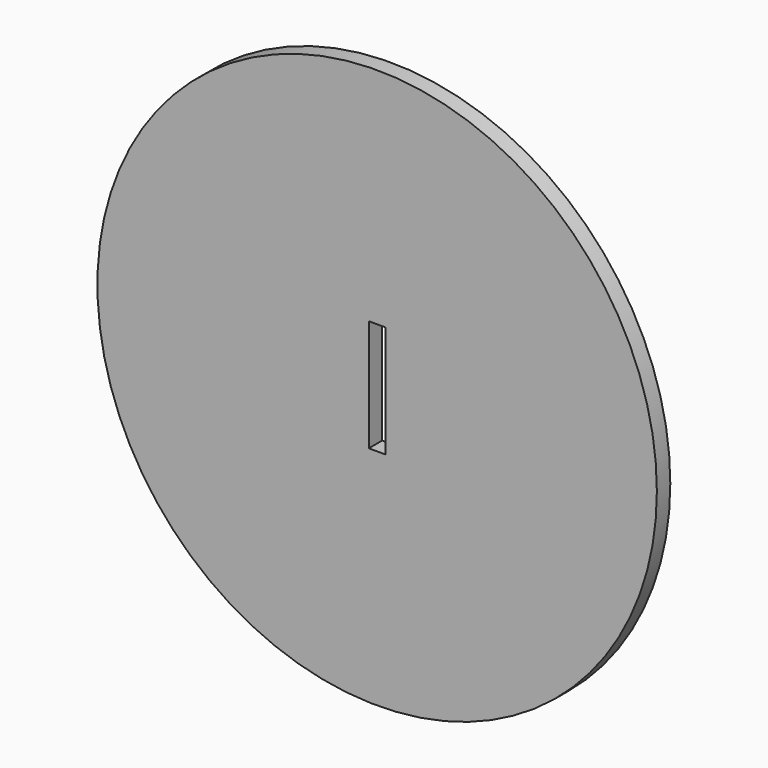
from build123d import *

# Parameters (mm, degrees)
F0_R     = 50
F0_W     = 3
F0_H     = 20
F1_DEPTH = 3


with BuildPart() as f1:
    # F0 (on Front) → F1 (new body)
    with BuildSketch(Plane.XZ):
        Circle(F0_R)
        Rectangle(F0_W, F0_H, mode=Mode.SUBTRACT)
    extrude(amount=F1_DEPTH)


solid = f1.part
